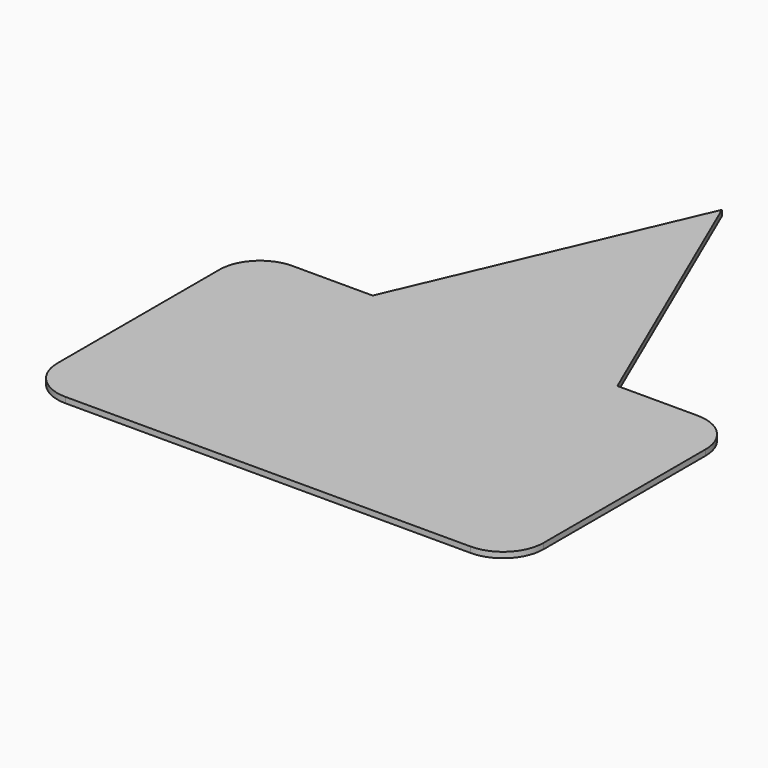
from build123d import *

# Parameters (mm, degrees)
F1_DEPTH = 0.7


with BuildPart() as f1:
    # F0 (on Top) → F1 (new body)
    with BuildSketch(Plane.XY):
        with BuildLine():
            Line((-25, 0), (0, 0))
            Line((0, 0), (25, 0))
            ThreePointArc((25, 0), (28.535534, 1.464466), (30, 5))
            Line((30, 5), (30, 30))
            ThreePointArc((30, 30), (28.535534, 33.535534), (25, 35))
            Line((25, 35), (15.099166, 35))
            Line((15.099166, 35), (0, 70))
            Line((0, 70), (-15.099166, 35))
            Line((-15.099166, 35), (-25, 35))
            ThreePointArc((-25, 35), (-28.535534, 33.535534), (-30, 30))
            Line((-30, 30), (-30, 5))
            ThreePointArc((-30, 5), (-28.535534, 1.464466), (-25, 0))
        make_face()
    extrude(amount=F1_DEPTH)


solid = f1.part
